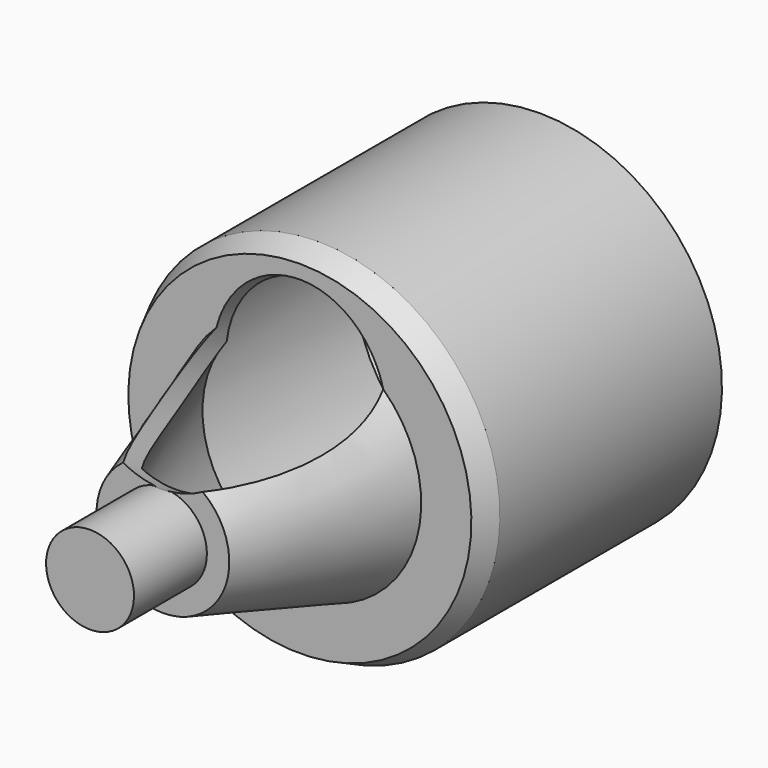
from build123d import *

# Parameters (mm, degrees)
F4_R     = 5.5
F5_DEPTH = 45.828123


with BuildPart() as f1:
    # F0 (on Right) → F1 (revolve)
    with BuildSketch(Plane.YZ):
        Polygon((72.648198, 1.8), (73.648198, 1.8), (73.648198, 3.5), (84.548198, 7), (84.548198, 9.6), (86.648198, 9.6), (86.648198, 10.6), (101.048198, 10.6), (101.198198, 10.45), (101.498198, 10.45), (102.648198, 11.6), (84.971239, 11.6), (83.548198, 10.922362), (83.548198, 7.729188), (72.648198, 4.229188), (72.648198, 2.8), (66.848198, 2.8), (66.848198, 0), (72.648198, 0), align=None)
    revolve(axis=Axis((0, 69.748198, 0), (0, 1, 0)))

    # F4 (on face) → F5 (cut, symmetric)
    with BuildSketch(Plane(origin=(0, 61.556939, -26.12937), x_dir=(-1, 0, 0), z_dir=(0, 0.920505, -0.390731))):
        with Locations((0, 36.385912)):
            Circle(F4_R)
    extrude(amount=F5_DEPTH, both=True, mode=Mode.SUBTRACT)


solid = f1.part
